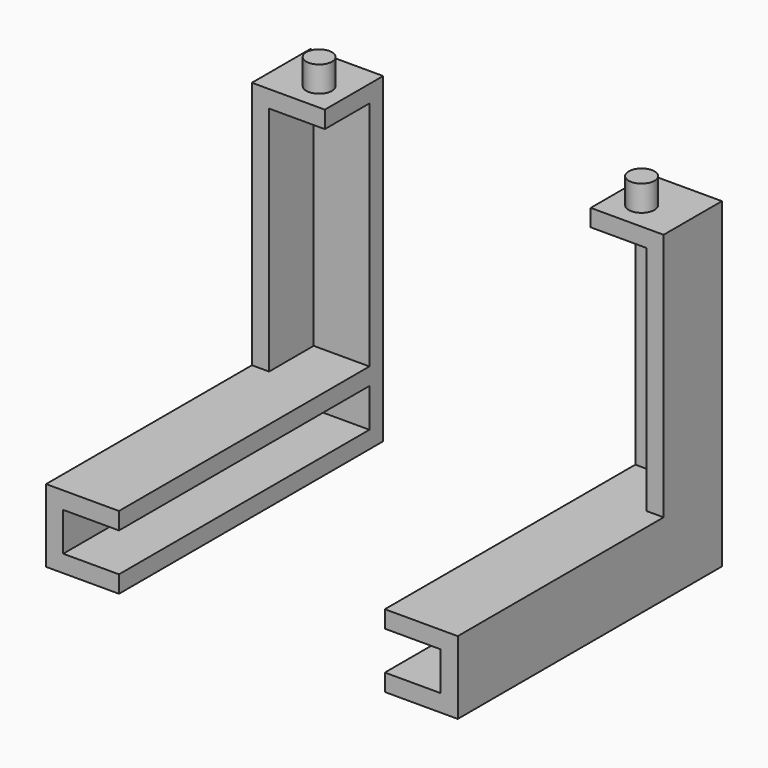
from build123d import *

# Parameters (mm, degrees)
F1_DEPTH  = 31
F2_W      = 6.5
F2_H      = 6.5
F3_DEPTH  = 2
F4_W      = 6.5
F4_H      = 6.5
F5_DEPTH  = 2
F6_DEPTH  = 6.5
F7_W      = 6.5
F7_H      = 6.5
F8_DEPTH  = 2
F9_W      = 6.5
F9_H      = 6.5
F10_DEPTH = 2
F11_W     = 6.5
F11_H     = 6.5
F12_DEPTH = 2
F13_W     = 6.5
F13_H     = 6.5
F14_DEPTH = 2
F15_R     = 1.5
F16_DEPTH = 3
F17_R     = 1.5
F18_DEPTH = 3
F20_DEPTH = 30
F22_DEPTH = 30


with BuildPart() as f1:
    # F0 (on Top) → F1 (new body)
    with BuildSketch(Plane.XY):
        with BuildLine():
            Line((-14.7741923779, 23.0157557372), (-16.7741923779, 23.0157557372))
            ThreePointArc((-16.7741923779, 23.0157557372), (-21.3703864556, 21.111949815), (-23.2741923779, 16.5157557372))
            Line((-23.2741923779, 16.5157557372), (-23.2741923779, 14.5157557372))
            Line((-23.2741923779, 14.5157557372), (-21.2741923779, 14.5157557372))
            Line((-21.2741923779, 14.5157557372), (-21.2741923779, 16.5157557372))
            Line((-21.2741923779, 16.5157557372), (-21.2741923779, 21.0157557372))
            Line((-21.2741923779, 21.0157557372), (-16.7741923779, 21.0157557372))
            Line((-16.7741923779, 21.0157557372), (-14.7741923779, 21.0157557372))
            Line((-14.7741923779, 21.0157557372), (-14.7741923779, 23.0157557372))
        make_face()
        with BuildLine():
            ThreePointArc((-23.2741923779, 16.5157557372), (-21.3703864556, 21.111949815), (-16.7741923779, 23.0157557372))
            Line((-16.7741923779, 23.0157557372), (-23.2741923779, 23.0157557372))
            Line((-23.2741923779, 23.0157557372), (-23.2741923779, 16.5157557372))
        make_face()
    extrude(amount=F1_DEPTH)

    # F2 (on face) → F3 (join)
    with BuildSketch(Plane(origin=(0, 0, 0), x_dir=(1, 0, 0), z_dir=(0, 0, -1))):
        with Locations((-18.0241923779, -17.7657557372)):
            Rectangle(F2_W, F2_H)
    extrude(amount=-F3_DEPTH)

    # F0 (on Top) → F6 (join)
    with BuildSketch(Plane.XY):
        with BuildLine():
            Line((-14.7741923779, 23.0157557372), (-16.7741923779, 23.0157557372))
            ThreePointArc((-16.7741923779, 23.0157557372), (-21.3703864556, 21.111949815), (-23.2741923779, 16.5157557372))
            Line((-23.2741923779, 16.5157557372), (-23.2741923779, 14.5157557372))
            Line((-23.2741923779, 14.5157557372), (-21.2741923779, 14.5157557372))
            Line((-21.2741923779, 14.5157557372), (-21.2741923779, 16.5157557372))
            Line((-21.2741923779, 16.5157557372), (-21.2741923779, 21.0157557372))
            Line((-21.2741923779, 21.0157557372), (-16.7741923779, 21.0157557372))
            Line((-16.7741923779, 21.0157557372), (-14.7741923779, 21.0157557372))
            Line((-14.7741923779, 21.0157557372), (-14.7741923779, 23.0157557372))
        make_face()
        with BuildLine():
            ThreePointArc((-23.2741923779, 16.5157557372), (-21.3703864556, 21.111949815), (-16.7741923779, 23.0157557372))
            Line((-16.7741923779, 23.0157557372), (-23.2741923779, 23.0157557372))
            Line((-23.2741923779, 23.0157557372), (-23.2741923779, 16.5157557372))
        make_face()
    extrude(amount=-F6_DEPTH)

    # F7 (on face) → F8 (join)
    with BuildSketch(Plane(origin=(0, 0, -6.5), x_dir=(1, 0, 0), z_dir=(0, 0, -1))):
        with Locations((-18.0241923779, -17.7657557372)):
            Rectangle(F7_W, F7_H)
    extrude(amount=-F8_DEPTH)

    # F13 (on face) → F14 (join)
    with BuildSketch(Plane.XY.offset(31)):
        with Locations((-18.0241923779, 17.7657557372)):
            Rectangle(F13_W, F13_H)
    extrude(amount=-F14_DEPTH)

    # F15 (on face) → F16 (join)
    with BuildSketch(Plane.XY.offset(31)):
        with Locations((-18.0722894168, 17.8138527761)):
            Circle(F15_R)
    extrude(amount=F16_DEPTH)

    # F19 (on face) → F20 (join)
    with BuildSketch(Plane.XZ.offset(-14.5157557372)):
        Polygon((-14.7741923779, 0), (-14.7741923779, 2), (-21.2741923779, 2), (-23.2741923779, 2), (-23.2741923779, -6.5), (-14.7741923779, -6.5), (-14.7741923779, -4.5), (-21.2741923779, -4.5), (-21.2741923779, 0), align=None)
    extrude(amount=F20_DEPTH)


with BuildPart() as f1b:
    # F0 (on Top) → F1, piece 2 (new body)
    with BuildSketch(Plane.XY):
        with BuildLine():
            Line((24.7258076221, 14.5157557372), (24.7258076221, 16.5157557372))
            ThreePointArc((24.7258076221, 16.5157557372), (22.8220016998, 21.111949815), (18.2258076221, 23.0157557372))
            Line((18.2258076221, 23.0157557372), (16.2258076221, 23.0157557372))
            Line((16.2258076221, 23.0157557372), (16.2258076221, 21.0157557372))
            Line((16.2258076221, 21.0157557372), (18.2258076221, 21.0157557372))
            Line((18.2258076221, 21.0157557372), (22.7258076221, 21.0157557372))
            Line((22.7258076221, 21.0157557372), (22.7258076221, 16.5157557372))
            Line((22.7258076221, 16.5157557372), (22.7258076221, 14.5157557372))
            Line((22.7258076221, 14.5157557372), (24.7258076221, 14.5157557372))
        make_face()
        with BuildLine():
            ThreePointArc((18.2258076221, 23.0157557372), (22.8220016998, 21.111949815), (24.7258076221, 16.5157557372))
            Line((24.7258076221, 16.5157557372), (24.7258076221, 23.0157557372))
            Line((24.7258076221, 23.0157557372), (18.2258076221, 23.0157557372))
        make_face()
    extrude(amount=F1_DEPTH)

    # F4 (on face) → F5 (join)
    with BuildSketch(Plane(origin=(0, 0, 0), x_dir=(1, 0, 0), z_dir=(0, 0, -1))):
        with Locations((19.4758076221, -17.7657557372)):
            Rectangle(F4_W, F4_H)
    extrude(amount=-F5_DEPTH)

    # F0 (on Top) → F6, piece 2 (join)
    with BuildSketch(Plane.XY):
        with BuildLine():
            Line((24.7258076221, 14.5157557372), (24.7258076221, 16.5157557372))
            ThreePointArc((24.7258076221, 16.5157557372), (22.8220016998, 21.111949815), (18.2258076221, 23.0157557372))
            Line((18.2258076221, 23.0157557372), (16.2258076221, 23.0157557372))
            Line((16.2258076221, 23.0157557372), (16.2258076221, 21.0157557372))
            Line((16.2258076221, 21.0157557372), (18.2258076221, 21.0157557372))
            Line((18.2258076221, 21.0157557372), (22.7258076221, 21.0157557372))
            Line((22.7258076221, 21.0157557372), (22.7258076221, 16.5157557372))
            Line((22.7258076221, 16.5157557372), (22.7258076221, 14.5157557372))
            Line((22.7258076221, 14.5157557372), (24.7258076221, 14.5157557372))
        make_face()
        with BuildLine():
            ThreePointArc((18.2258076221, 23.0157557372), (22.8220016998, 21.111949815), (24.7258076221, 16.5157557372))
            Line((24.7258076221, 16.5157557372), (24.7258076221, 23.0157557372))
            Line((24.7258076221, 23.0157557372), (18.2258076221, 23.0157557372))
        make_face()
    extrude(amount=-F6_DEPTH)

    # F9 (on face) → F10 (join)
    with BuildSketch(Plane(origin=(0, 0, -6.5), x_dir=(1, 0, 0), z_dir=(0, 0, -1))):
        with Locations((19.4758076221, -17.7657557372)):
            Rectangle(F9_W, F9_H)
    extrude(amount=-F10_DEPTH)

    # F11 (on face) → F12 (join)
    with BuildSketch(Plane.XY.offset(31)):
        with Locations((19.4758076221, 17.7657557372)):
            Rectangle(F11_W, F11_H)
    extrude(amount=-F12_DEPTH)

    # F17 (on face) → F18 (join)
    with BuildSketch(Plane.XY.offset(31)):
        with Locations((19.5239046609, 17.8138527761)):
            Circle(F17_R)
    extrude(amount=F18_DEPTH)

    # F21 (on face) → F22 (join)
    with BuildSketch(Plane.XZ.offset(-14.5157557372)):
        Polygon((22.7258076221, 2), (16.2258076221, 2), (16.2258076221, 0), (22.7258076221, 0), (22.7258076221, -4.5), (16.2258076221, -4.5), (16.2258076221, -6.5), (24.7258076221, -6.5), (24.7258076221, 2), align=None)
    extrude(amount=F22_DEPTH)


solid = Compound([f1.part, f1b.part])
